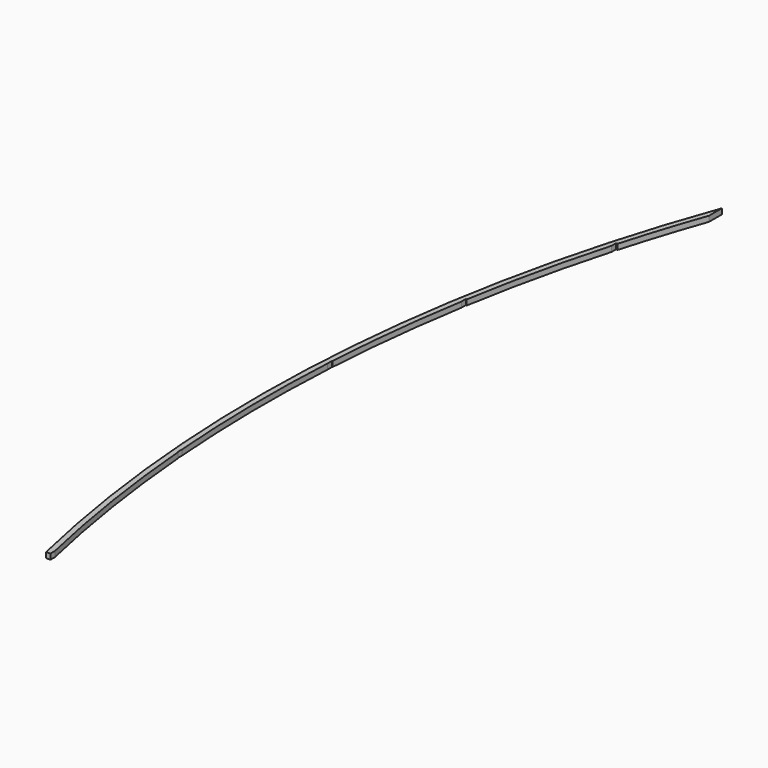
from build123d import *

# Parameters (mm, degrees)
F1_DEPTH = 25.4


with BuildPart() as f1:
    # F0 (on Top) → F1 (new body)
    with BuildSketch(Plane.XY):
        with BuildLine():
            Line((0, 1753.793905), (0, 1828.8))
            ThreePointArc((0, 1828.8), (-379.983705, 16.605232), (-228.6, -1828.8))
            Line((-228.6, -1828.8), (-208.347173, -1828.8))
            Line((-208.347173, -1828.8), (-208.347173, -1803.4))
            ThreePointArc((-208.347173, -1803.4), (-292.470693, -1360.839656), (-345.323534, -913.466208))
            Line((-345.323534, -913.466208), (-347.37228, -913.466208))
            Line((-347.37228, -913.466208), (-347.37228, -888.066208))
            ThreePointArc((-347.37228, -888.066208), (-366.722171, -456.895686), (-357.03141, -25.4))
            Line((-357.03141, -25.4), (-357.03141, 0))
            Line((-357.03141, 0), (-355.554282, 0))
            ThreePointArc((-355.554282, 0), (-327.008561, 331.161722), (-281.34566, 660.4))
            Line((-281.34566, 660.4), (-281.34566, 685.8))
            Line((-281.34566, 685.8), (-277.097032, 685.8))
            ThreePointArc((-277.097032, 685.8), (-211.79249, 1017.953945), (-129.05523, 1346.2))
            Line((-129.05523, 1346.2), (-129.05523, 1371.6))
            Line((-129.05523, 1371.6), (-121.878676, 1371.6))
            ThreePointArc((-121.878676, 1371.6), (-63.927991, 1563.650011), (0, 1753.793905))
        make_face()
    extrude(amount=F1_DEPTH)


solid = f1.part
